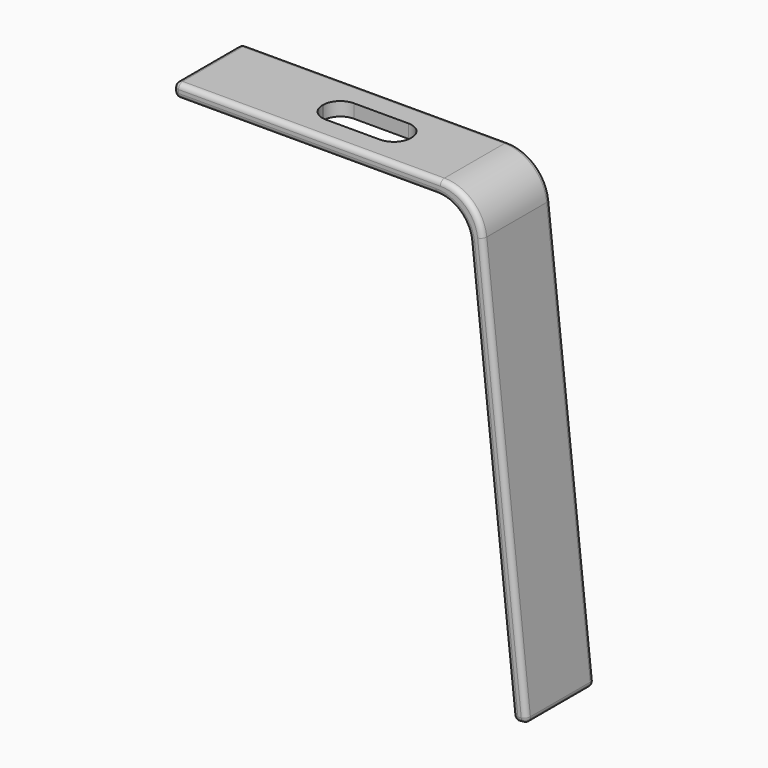
from build123d import *

# Parameters (mm, degrees)
F1_DEPTH = 12.7
F3_DEPTH = 25.4
F4_R     = 0.762


with BuildPart() as f1:
    # F0 (on Front) → F1 (new body)
    with BuildSketch(Plane.XZ):
        with BuildLine():
            Line((-30.084311, 8.829161), (-69.908474, 8.829161))
            Line((-69.908474, 8.829161), (-69.879254, 6.797161))
            Line((-69.879254, 6.797161), (-30.769229, 6.797161))
            ThreePointArc((-30.769229, 6.797161), (-27.373303, 5.495266), (-25.717982, 2.256878))
            Line((-25.717982, 2.256878), (-19.204397, -58.704096))
            Line((-19.204397, -58.704096), (-17.183898, -58.488209))
            Line((-17.183898, -58.488209), (-23.770251, 3.153808))
            ThreePointArc((-23.770251, 3.153808), (-25.839402, 7.201793), (-30.084311, 8.829161))
        make_face()
    extrude(amount=F1_DEPTH)

    # F2 (on face) → F3 (cut)
    with BuildSketch(Plane.XY.offset(8.829161)):
        with BuildLine():
            Line((-41.998038, -3.787424), (-50.117151, -3.787424))
            ThreePointArc((-50.117151, -3.787424), (-51.913202, -4.531373), (-52.657151, -6.327424))
            Line((-52.657151, -6.327424), (-52.657151, -6.510304))
            ThreePointArc((-52.657151, -6.510304), (-51.913202, -8.306355), (-50.117151, -9.050304))
            Line((-50.117151, -9.050304), (-41.998038, -9.050304))
            ThreePointArc((-41.998038, -9.050304), (-40.201987, -8.306355), (-39.458038, -6.510304))
            Line((-39.458038, -6.510304), (-39.458038, -6.327424))
            ThreePointArc((-39.458038, -6.327424), (-40.201987, -4.531373), (-41.998038, -3.787424))
        make_face()
    extrude(amount=-F3_DEPTH, mode=Mode.SUBTRACT)

    # F4
    f4_edges = [f1.edges().sort_by_distance(p)[0] for p in [
        (-49.996392, -12.7, 8.829161),
        (-17.183898, -6.35, -58.488209),
        (-50.324242, -12.7, 6.797161),
        (-20.477074, 0, -27.6672),
        (-22.461189, 0, -28.223609),
        (-18.194148, 0, -58.596152),
        (-19.204397, -6.35, -58.704096),
        (-18.194148, -12.7, -58.596152),
        (-69.879254, -6.35, 6.797161),
        (-69.893864, -12.7, 7.813161),
        (-69.908474, -6.35, 8.829161),
        (-69.893864, 0, 7.813161),
        (-25.839402, 0, 7.201793),
        (-25.839402, -12.7, 7.201793),
    ]]
    fillet(f4_edges, radius=F4_R)


solid = f1.part
